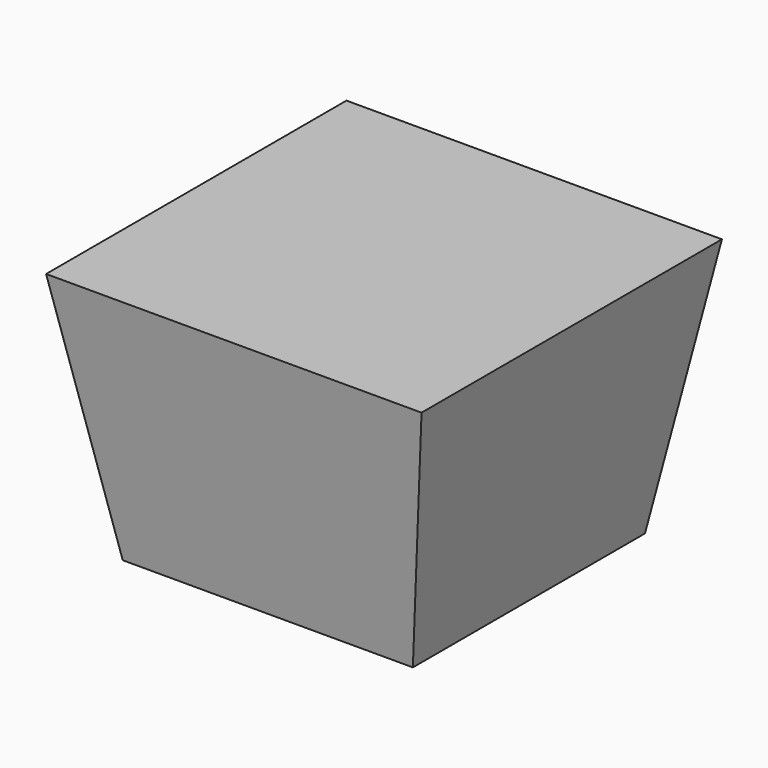
from build123d import *

# Parameters (mm, degrees)
F0_W = 17
F0_H = 17
F2_W = 22
F2_H = 22


with BuildPart() as f3:
    # F0 (on Top) → F3 section 0
    with BuildSketch(Plane.XY):
        with Locations((-8.5, 8.5)):
            Rectangle(F0_W, F0_H)
    # F2 (on offset) → F3 section 1
    with BuildSketch(Plane.XY.offset(15)):
        with Locations((-8.460002, 8.46)):
            Rectangle(F2_W, F2_H)
    loft()


solid = f3.part
